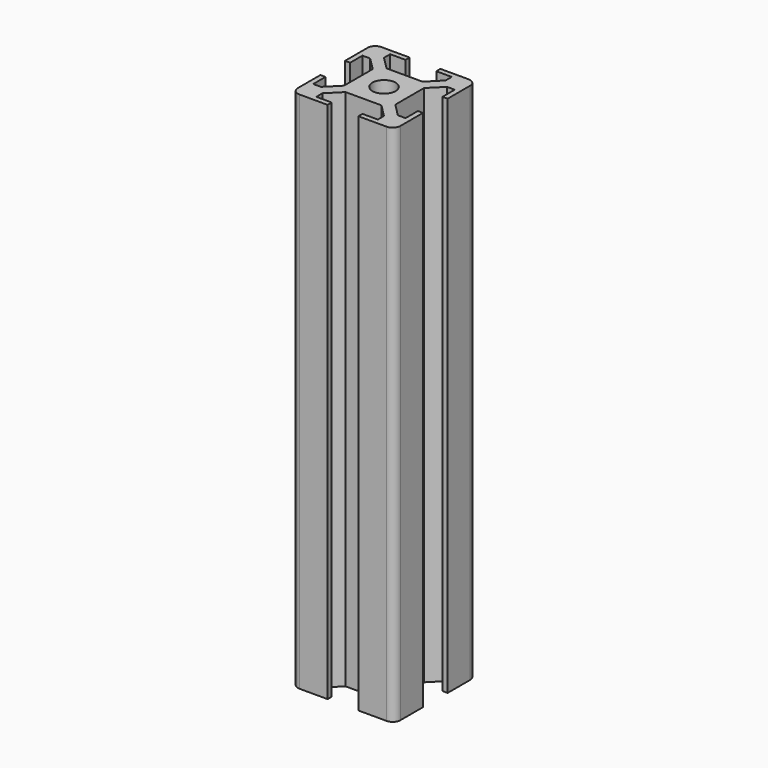
from build123d import *

# Parameters (mm, degrees)
SKETCH_R  = 2.25
PAD_DEPTH = 102
FILLET_R  = 1.5


with BuildPart() as part:
    # Sketch → Pad (new body)
    with BuildSketch(Plane(origin=(0, 0, 0), x_dir=(1, 0, 0), z_dir=(0, 0, -1))):
        Polygon((7, 0), (7, -1), (4, -1), (4, -2.5), (6.499998, -5), (13.500002, -5), (16, -2.5), (16, -1), (13, -1), (13, 0), (20, 0), (20, -7), (19, -7), (19, -4), (17.5, -4), (15.000002, -6.5), (15.000002, -13.500005), (17.5, -16.000005), (19, -16.000005), (19, -13.000005), (20, -13.000005), (20, -20.000005), (13, -20.000005), (13, -19.000005), (16, -19.000005), (16, -17.500005), (13.500002, -15.000005), (6.499998, -15.000005), (4, -17.500005), (4, -19.000005), (7, -19.000005), (7, -20.000005), (0, -20.000005), (0, -13.000005), (1, -13.000005), (1, -16.000005), (2.5, -16.000005), (4.999998, -13.500005), (4.999998, -6.5), (2.5, -4), (1, -4), (1, -7), (0, -7), (0, 0), align=None)
        with Locations((10, -10.000002)):
            Circle(SKETCH_R, mode=Mode.SUBTRACT)
    extrude(amount=PAD_DEPTH)

    # Fillet
    fillet_edges = [part.edges().sort_by_distance(p)[0] for p in [
        (20, 20.000005, -51),
        (20, 0, -51),
        (0, 20.000005, -51),
        (0, 0, -51),
    ]]
    fillet(fillet_edges, radius=FILLET_R)


solid = part.part
